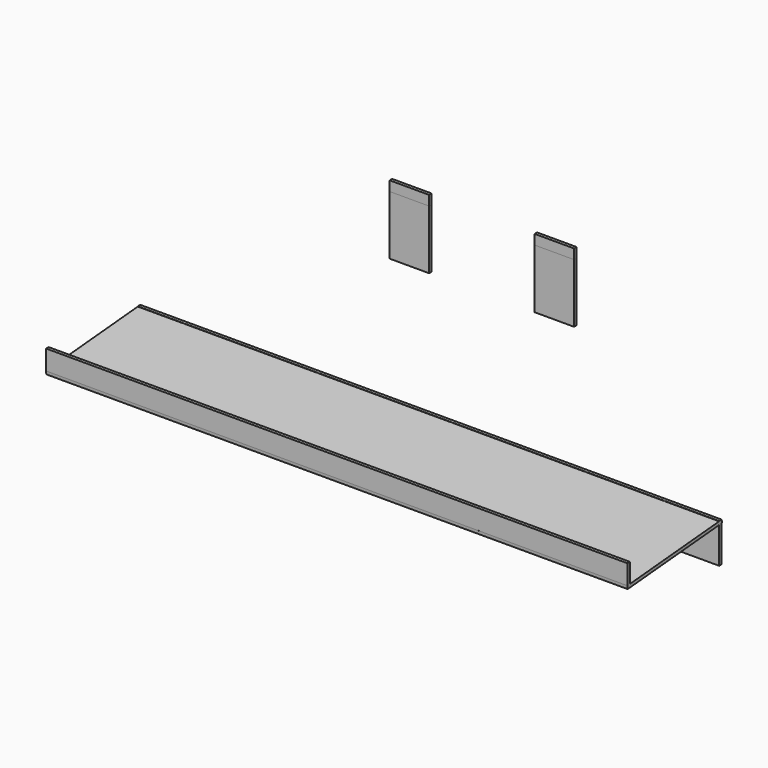
from build123d import *

# Parameters (mm, degrees)
F0_W      = 20
F0_H      = 20
F0_W_2    = 255
F0_R      = 2.5
F6_DEPTH  = 1.6
F2_W      = 295
F2_H      = 60
F7_DEPTH  = 1.6
F4_W      = 295
F4_H      = 10
F8_DEPTH  = 1.6
F5_W      = 20
F5_H      = 30
F9_DEPTH  = 1.6
F5_H_2    = 5
F10_DEPTH = 1.6


with BuildPart() as f6:
    # F0 (on Front) → F6 (new body)
    with BuildSketch(Plane.XZ):
        with Locations((285, 10)):
            Rectangle(F0_W, F0_H)
        with Locations((147.5, 10)):
            Rectangle(F0_W_2, F0_H)
        with Locations((37.5, 10)):
            Circle(F0_R, mode=Mode.SUBTRACT)
        with Locations((147.5, 10)):
            Circle(F0_R, mode=Mode.SUBTRACT)
        with Locations((257.5, 10)):
            Circle(F0_R, mode=Mode.SUBTRACT)
        with Locations((10, 10)):
            Rectangle(F0_W, F0_H)
    extrude(amount=F6_DEPTH)

    # F2 (on face) → F7 (join)
    with BuildSketch(Plane(origin=(0, -1.736482, 19.848078), x_dir=(1, 0, 0), z_dir=(0, 0.087156, -0.996195))):
        with Locations((147.5, 28.256885)):
            Rectangle(F2_W, F2_H)
    extrude(amount=F7_DEPTH)

    # F4 (on face) → F8 (join)
    with BuildSketch(Plane.XZ.offset(59.771682)):
        with Locations((147.5, 19.770655)):
            Rectangle(F4_W, F4_H)
    extrude(amount=-F8_DEPTH)


with BuildPart() as f9:
    # F5 (on Front) → F9 (new body)
    with BuildSketch(Plane.XZ):
        with Locations((137.801906, 97.820768)):
            Rectangle(F5_W, F5_H)
        with Locations((211.342821, 97.820768)):
            Rectangle(F5_W, F5_H)
    extrude(amount=F9_DEPTH)


with BuildPart() as f10:
    # F5 (on Front) → F10 (new body)
    with BuildSketch(Plane.XZ):
        with Locations((137.801906, 115.320768)):
            Rectangle(F5_W, F5_H_2)
        with Locations((211.342821, 115.320768)):
            Rectangle(F5_W, F5_H_2)
    extrude(amount=F10_DEPTH)


solid = Compound([f6.part, f9.part, f10.part])
